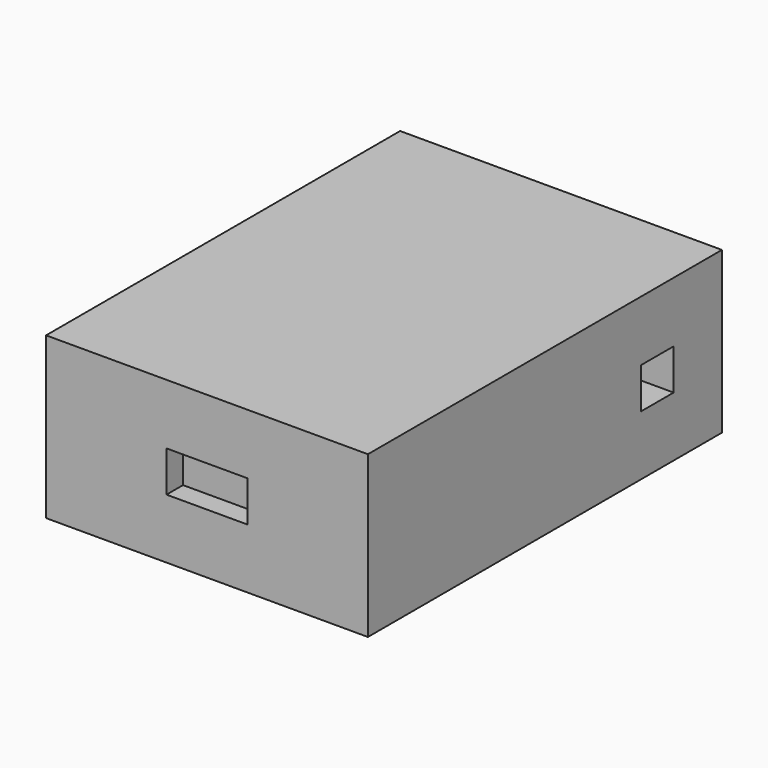
from build123d import *

# Parameters (mm, degrees)
F0_W     = 64
F0_H     = 88
F1_DEPTH = 32
F2_W     = 16.1
F2_H     = 8.1
F3_DEPTH = 4.1
F4_W     = 16.1
F4_H     = 8.1
F5_DEPTH = 4.1
F6_W     = 8.1
F6_H     = 8.1
F7_DEPTH = 8.1
F8_W     = 8.1
F8_H     = 8.1
F9_DEPTH = 8.1


with BuildPart() as f1:
    # F0 (on Top) → F1 (new body)
    with BuildSketch(Plane.XY):
        Rectangle(F0_W, F0_H)
    extrude(amount=F1_DEPTH)

    # F2 (on face) → F3 (cut)
    with BuildSketch(Plane(origin=(0, 44, 0), x_dir=(-1, 0, 0), z_dir=(0, 1, 0))):
        with Locations((0, 16.05)):
            Rectangle(F2_W, F2_H)
    extrude(amount=-F3_DEPTH, mode=Mode.SUBTRACT)

    # F4 (on face) → F5 (cut)
    with BuildSketch(Plane.XZ.offset(44)):
        with Locations((0, 15.95)):
            Rectangle(F4_W, F4_H)
    extrude(amount=-F5_DEPTH, mode=Mode.SUBTRACT)

    # F6 (on face) → F7 (cut)
    with BuildSketch(Plane.YZ.offset(32)):
        with Locations((27.95, 15.95)):
            Rectangle(F6_W, F6_H)
    extrude(amount=-F7_DEPTH, mode=Mode.SUBTRACT)

    # F8 (on face) → F9 (cut)
    with BuildSketch(Plane(origin=(-32, 0, 0), x_dir=(0, -1, 0), z_dir=(-1, 0, 0))):
        with Locations((-27.95, 15.95)):
            Rectangle(F8_W, F8_H)
    extrude(amount=-F9_DEPTH, mode=Mode.SUBTRACT)


solid = f1.part
